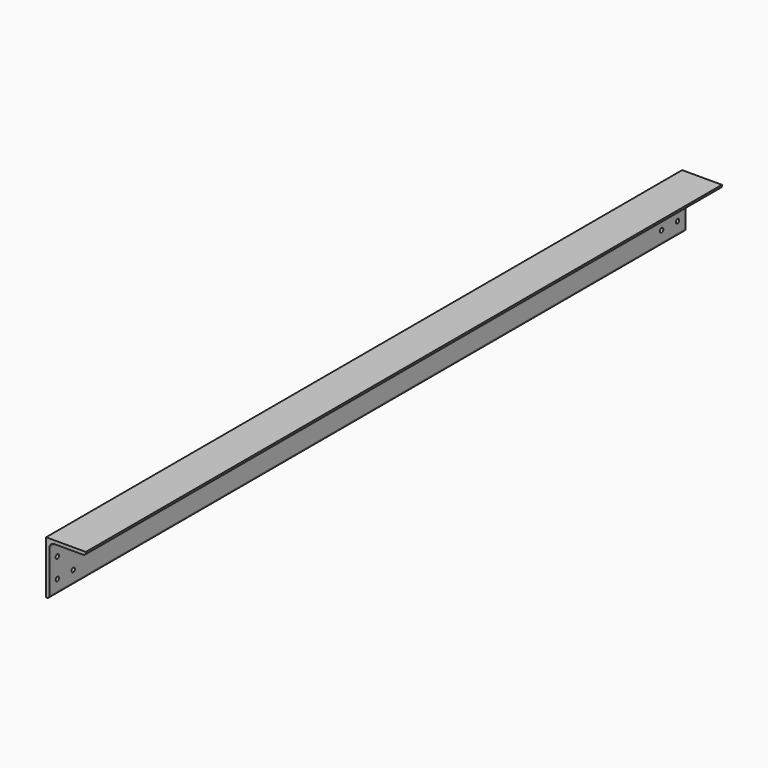
from build123d import *

# Parameters (mm, degrees)
F1_DEPTH = 3048
F2_R     = 7.9375
F3_DEPTH = 25.4


with BuildPart() as f1:
    # F0 (on Front) → F1 (new body)
    with BuildSketch(Plane.XZ):
        with BuildLine():
            Line((85.364948, 130.843385), (-67.035052, 130.843385))
            Line((-67.035052, 130.843385), (-67.035052, -72.356615))
            Line((-67.035052, -72.356615), (-63.860052, -72.356615))
            ThreePointArc((-63.860052, -72.356615), (-57.12486, -69.566807), (-54.335052, -62.831615))
            Line((-54.335052, -62.831615), (-54.335052, 99.093385))
            ThreePointArc((-54.335052, 99.093385), (-48.755436, 112.563769), (-35.285052, 118.143385))
            Line((-35.285052, 118.143385), (75.839948, 118.143385))
            ThreePointArc((75.839948, 118.143385), (82.57514, 120.933193), (85.364948, 127.668385))
            Line((85.364948, 127.668385), (85.364948, 130.843385))
        make_face()
    extrude(amount=F1_DEPTH)

    # F2 (on face) → F3 (cut)
    with BuildSketch(Plane(origin=(-67.035052, 0, 0), x_dir=(0, -1, 0), z_dir=(-1, 0, 0))):
        with Locations((38.1, 54.643385)):
            Circle(F2_R)
        with Locations((114.3, 54.643385)):
            Circle(F2_R)
        with Locations((38.1, -21.556615)):
            Circle(F2_R)
        with Locations((114.3, -21.556615)):
            Circle(F2_R)
        with Locations((2933.7, 54.643385)):
            Circle(F2_R)
        with Locations((3009.9, 54.643385)):
            Circle(F2_R)
        with Locations((3009.9, -21.556615)):
            Circle(F2_R)
        with Locations((2933.7, -21.556615)):
            Circle(F2_R)
    extrude(amount=-F3_DEPTH, mode=Mode.SUBTRACT)


solid = f1.part
